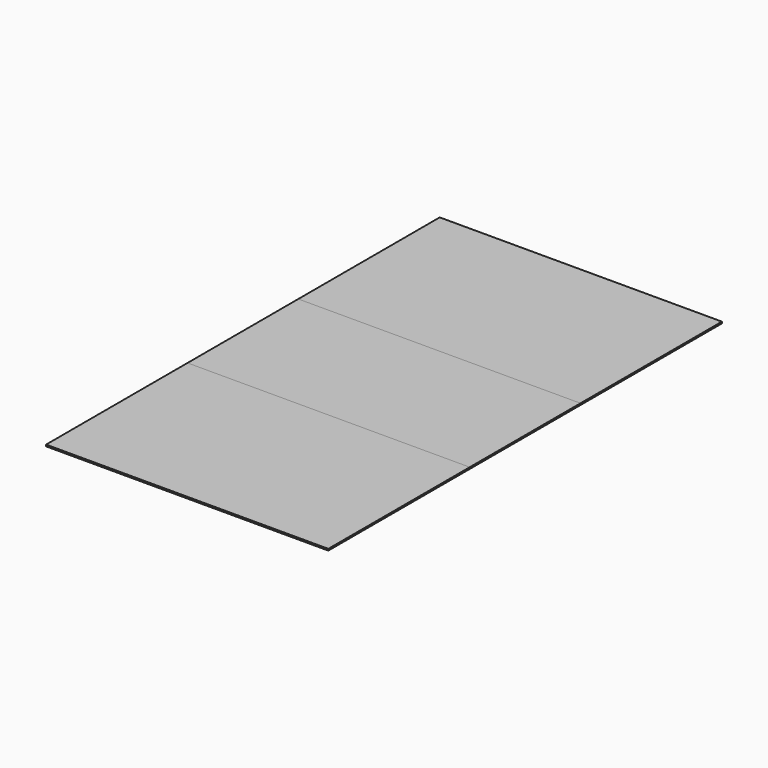
from build123d import *

# Parameters (mm, degrees)
F0_W     = 265
F0_H     = 166
F3_DEPTH = 1.5
F1_W     = 265
F1_H     = 130
F2_W     = 265
F2_H     = 166


with BuildPart() as f3:
    # F0 (on Top) → F3 (new body)
    with BuildSketch(Plane.XY):
        with Locations((-56.762821041, -2.907051988)):
            Rectangle(F0_W, F0_H)
    extrude(amount=F3_DEPTH)


with BuildPart() as f3b:
    # F1 (on Top) → F3, piece 2 (new body)
    with BuildSketch(Plane.XY):
        with Locations((-56.762821041, -150.907051988)):
            Rectangle(F1_W, F1_H)
    extrude(amount=F3_DEPTH)


with BuildPart() as f3c:
    # F2 (on Top) → F3, piece 3 (new body)
    with BuildSketch(Plane.XY):
        with Locations((-56.762821041, -298.907051988)):
            Rectangle(F2_W, F2_H)
    extrude(amount=F3_DEPTH)


solid = Compound([f3.part, f3b.part, f3c.part])
